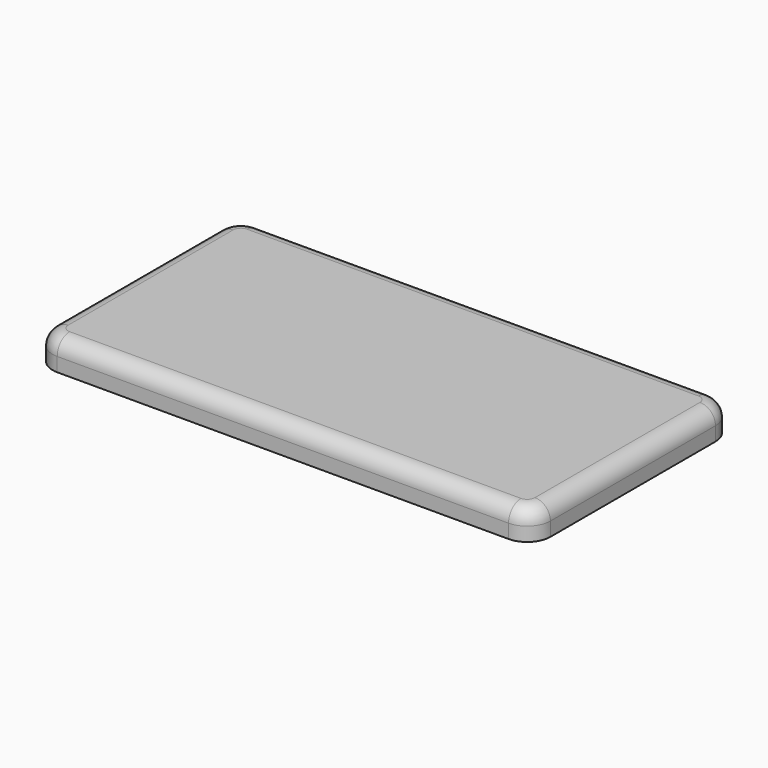
from build123d import *

# Parameters (mm, degrees)
F0_W     = 163.068
F0_H     = 82.804
F1_DEPTH = 9.652
F2_R     = 7.62
F3_R     = 5.08
F4_T     = -2.54


with BuildPart() as f1:
    # F0 (on Top) → F1 (new body)
    with BuildSketch(Plane.XY):
        Rectangle(F0_W, F0_H)
    extrude(amount=F1_DEPTH)

    # F2
    f2_edges = [f1.edges().sort_by_distance(p)[0] for p in [
        (-81.534, 41.402, 4.826),
        (-81.534, -41.402, 4.826),
        (81.534, 41.402, 4.826),
        (81.534, -41.402, 4.826),
    ]]
    fillet(f2_edges, radius=F2_R)

    # F3
    f3_edges = [f1.edges().sort_by_distance(p)[0] for p in [
        (0, -41.402, 9.652),
        (-79.302154, -39.170154, 9.652),
        (79.302154, -39.170154, 9.652),
        (-81.534, 0, 9.652),
        (81.534, 0, 9.652),
        (-79.302154, 39.170154, 9.652),
        (79.302154, 39.170154, 9.652),
        (0, 41.402, 9.652),
    ]]
    fillet(f3_edges, radius=F3_R)

    # F4
    f4_openings = [f1.faces().sort_by_distance(p)[0] for p in [
        (0, 0, 0),
    ]]
    offset(amount=F4_T, openings=f4_openings)


solid = f1.part
